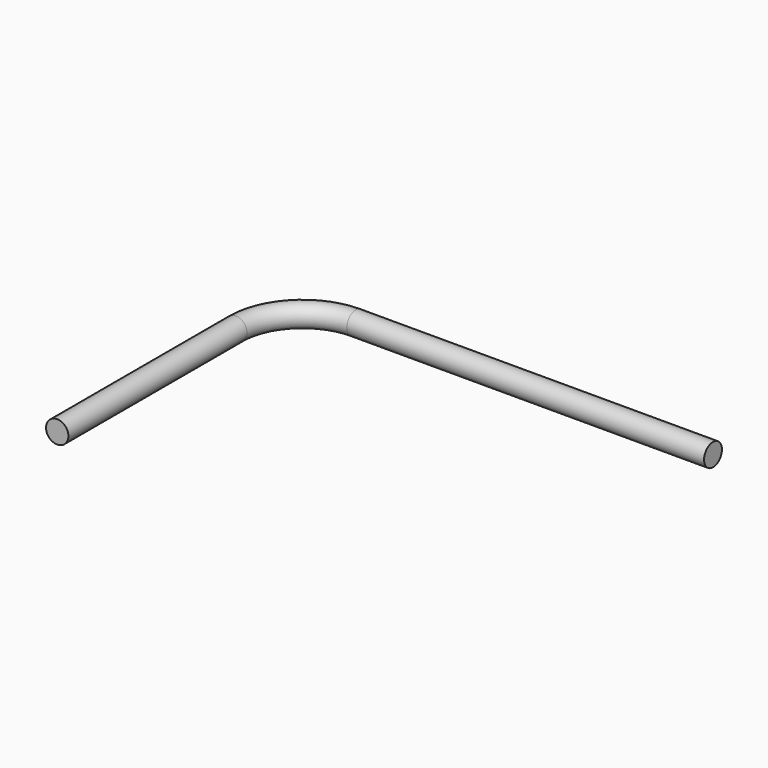
from build123d import *

# Parameters (mm, degrees)
F2_R = 1.5875


with BuildPart() as f3:
    # F3: sweep along a path in F0
    with BuildLine(Plane.XY) as f3_path:
        Line((50.8, 7.874), (0, 7.874))
        ThreePointArc((0, 7.874), (-5.5677587951, 5.5677587951), (-7.874, 0))
        Line((-7.874, 0), (-7.874, -31.75))
    # F2 (on plane+point) → F3 (sweep)
    with BuildSketch(Plane.XZ.offset(31.75)):
        with Locations((-9.4615, 0)):
            Circle(F2_R)
    sweep(path=f3_path.line)


solid = f3.part
